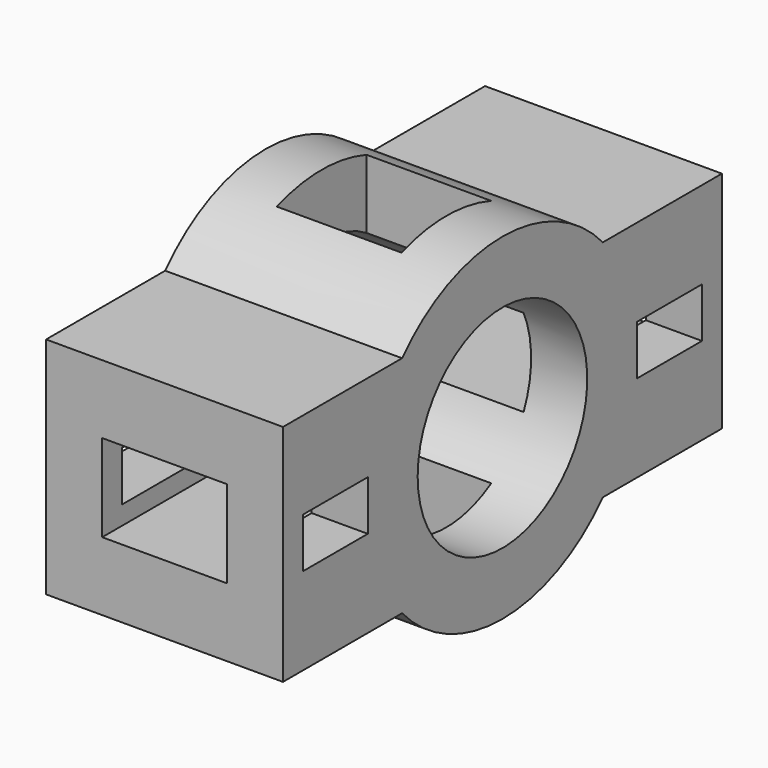
from build123d import *

# Parameters (mm, degrees)
F1_DEPTH = 19
F3_D     = 34
F4_W     = 20
F4_H     = 18
F5_DEPTH = 27
F6_W     = 13
F6_H     = 8
F7_DEPTH = 19
F8_W     = 20
F8_H     = 14
F9_DEPTH = 44


with BuildPart() as f1:
    # F0 (on Right) → F1 (new body, symmetric)
    with BuildSketch(Plane.YZ):
        with BuildLine():
            Line((-20.1246117975, 18), (20.1246117975, 18))
            ThreePointArc((20.1246117975, 18), (0, 27), (-20.1246117975, 18))
        make_face()
        with BuildLine():
            ThreePointArc((-20.1246117975, -18), (-27, 0), (-20.1246117975, 18))
            Line((-20.1246117975, 18), (-44, 18))
            Line((-44, 18), (-44, -18))
            Line((-44, -18), (-20.1246117975, -18))
        make_face()
        with BuildLine():
            ThreePointArc((20.1246117975, -18), (25.222653692, -9.6341964239), (27, 0))
            ThreePointArc((27, 0), (25.222653692, 9.6341964239), (20.1246117975, 18))
            Line((20.1246117975, 18), (-20.1246117975, 18))
            ThreePointArc((-20.1246117975, 18), (-27, 0), (-20.1246117975, -18))
            Line((-20.1246117975, -18), (20.1246117975, -18))
        make_face()
        with BuildLine():
            ThreePointArc((20.1246117975, 18), (25.222653692, 9.6341964239), (27, 0))
            ThreePointArc((27, 0), (25.222653692, -9.6341964239), (20.1246117975, -18))
            Line((20.1246117975, -18), (44, -18))
            Line((44, -18), (44, 18))
            Line((44, 18), (20.1246117975, 18))
        make_face()
        with BuildLine():
            ThreePointArc((-20.1246117975, -18), (0, -27), (20.1246117975, -18))
            Line((20.1246117975, -18), (-20.1246117975, -18))
        make_face()
    extrude(amount=F1_DEPTH, both=True)

    # F3 (through all)
    with Locations(Plane.YZ.offset(19)):
        with Locations((0, 0)):
            Hole(F3_D / 2)

    # F4 (on Top) → F5 (cut, symmetric)
    with BuildSketch(Plane.XY):
        Rectangle(F4_W, F4_H)
    extrude(amount=F5_DEPTH, both=True, mode=Mode.SUBTRACT)

    # F6 (on Right) → F7 (cut, symmetric)
    with BuildSketch(Plane.YZ):
        with Locations((-33.5, 0)):
            Rectangle(F6_W, F6_H)
        with Locations((33.5, 0)):
            Rectangle(F6_W, F6_H)
    extrude(amount=F7_DEPTH, both=True, mode=Mode.SUBTRACT)

    # F8 (on Front) → F9 (cut, symmetric)
    with BuildSketch(Plane.XZ):
        Rectangle(F8_W, F8_H)
    extrude(amount=F9_DEPTH, both=True, mode=Mode.SUBTRACT)


solid = f1.part
